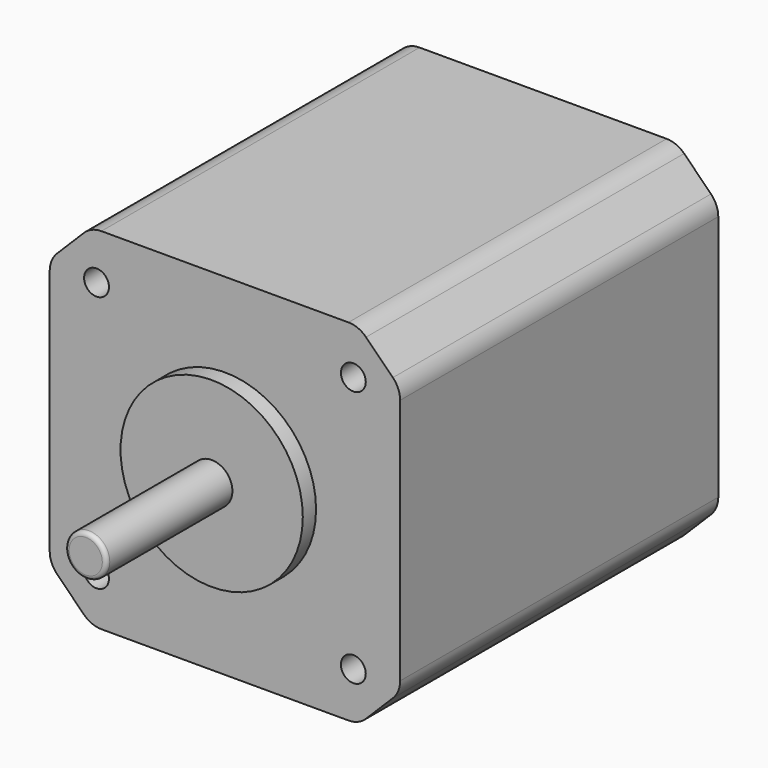
from build123d import *

# Parameters (mm, degrees)
F0_W     = 42.3
F0_H     = 42.3
F1_DEPTH = 48
F2_R     = 1.5
F3_DEPTH = 4.5
F4_R     = 11
F5_DEPTH = 2
F6_SIZE  = 5
F7_R     = 2.5
F8_DEPTH = 19
F9_R     = 0.5
F10_R    = 3


with BuildPart() as f1:
    # F0 (on Front) → F1 (new body)
    with BuildSketch(Plane.XZ):
        Rectangle(F0_W, F0_H)
    extrude(amount=F1_DEPTH)

    # F2 (on face) → F3 (cut)
    with BuildSketch(Plane.XZ.offset(48)):
        with Locations((-15.5, 15.5)):
            Circle(F2_R)
        with Locations((-15.5, -15.5)):
            Circle(F2_R)
        with Locations((15.5, -15.5)):
            Circle(F2_R)
        with Locations((15.5, 15.5)):
            Circle(F2_R)
    extrude(amount=-F3_DEPTH, mode=Mode.SUBTRACT)

    # F4 (on face) → F5 (join)
    with BuildSketch(Plane.XZ.offset(48)):
        Circle(F4_R)
    extrude(amount=F5_DEPTH)

    # F6
    f6_edges = [f1.edges().sort_by_distance(p)[0] for p in [
        (21.15, -24, 21.15),
        (-21.15, -24, 21.15),
        (-21.15, -24, -21.15),
        (21.15, -24, -21.15),
    ]]
    chamfer(f6_edges, length=F6_SIZE)

    # F7 (on face) → F8 (join)
    with BuildSketch(Plane.XZ.offset(50)):
        Circle(F7_R)
    extrude(amount=F8_DEPTH)

    # F9
    f9_edges = [f1.edges().sort_by_distance(p)[0] for p in [
        (-2.5, -69, 0),
    ]]
    fillet(f9_edges, radius=F9_R)

    # F10
    f10_edges = [f1.edges().sort_by_distance(p)[0] for p in [
        (16.15, -24, -21.15),
        (21.15, -24, -16.15),
        (-16.15, -24, -21.15),
        (-21.15, -24, -16.15),
        (21.15, -24, 16.15),
        (16.15, -24, 21.15),
        (-16.15, -24, 21.15),
        (-21.15, -24, 16.15),
    ]]
    fillet(f10_edges, radius=F10_R)


solid = f1.part
